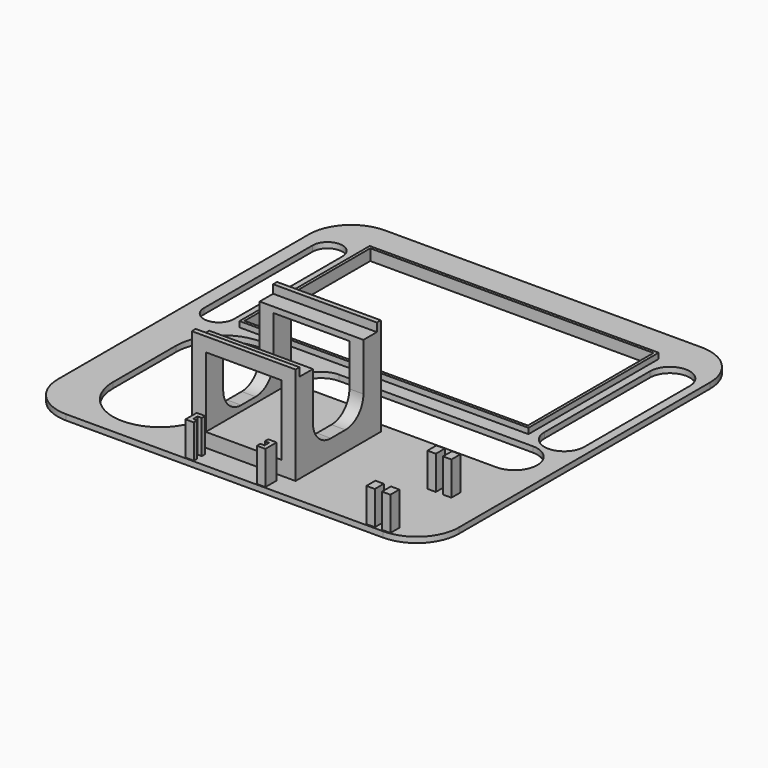
from build123d import *

# Parameters (mm, degrees)
SKETCH_W        = 143
SKETCH_H        = 142
PAD_DEPTH       = 2
SKETCH007_W     = 3
SKETCH007_H     = 4
PAD005_DEPTH    = 12
SKETCH008_W     = 103
SKETCH008_H     = 58
SKETCH008_W_2   = 101
SKETCH008_H_2   = 56
PAD006_DEPTH    = 2
SKETCH009_W     = 37
SKETCH009_H     = 38
PAD007_DEPTH    = 35
SKETCH010_W     = 37
SKETCH010_H     = 34.5
POCKET_DEPTH    = 3
SKETCH011_W     = 37
SKETCH011_H     = 22.5
POCKET001_DEPTH = 25
SKETCH013_W     = 27
SKETCH013_H     = 25
POCKET002_DEPTH = 45
SKETCH014_W     = 101
SKETCH014_H     = 56
POCKET003_DEPTH = 2.001
POCKET004_DEPTH = 2.001
FILLET_R        = 8
FILLET001_R     = 15


with BuildPart() as part:
    # Sketch → Pad (new body)
    with BuildSketch(Plane.XY):
        Rectangle(SKETCH_W, SKETCH_H)
    extrude(amount=PAD_DEPTH)

    # Sketch007 (on Face6 of Pad) → Pad005 (join)
    with BuildSketch(Plane.XY.offset(2)):
        with Locations((57.18826, -41.31823)):
            Rectangle(SKETCH007_W, SKETCH007_H)
        with Locations((51.63826, -41.31823)):
            Rectangle(SKETCH007_W, SKETCH007_H)
        with Locations((57.18826, -68.51823)):
            Rectangle(SKETCH007_W, SKETCH007_H)
        with Locations((51.63826, -68.51823)):
            Rectangle(SKETCH007_W, SKETCH007_H)
        Polygon((11.25, -65.67434), (14.25, -65.67434), (14.25, -70.67434), (11.25, -70.67434), (11.25, -69.17434), (12.75, -69.17434), (12.75, -67.17434), (11.25, -67.17434), align=None)
        Polygon((-14.25, -65.67434), (-11.25, -65.67434), (-11.25, -67.17434), (-12.75, -67.17434), (-12.75, -69.17434), (-11.25, -69.17434), (-11.25, -70.67434), (-14.25, -70.67434), align=None)
    extrude(amount=PAD005_DEPTH)

    # Sketch008 (on Face5 of Pad005) → Pad006 (join)
    with BuildSketch(Plane.XY.offset(2)):
        with Locations((0, 29)):
            Rectangle(SKETCH008_W, SKETCH008_H)
        with Locations((0, 29)):
            Rectangle(SKETCH008_W_2, SKETCH008_H_2, mode=Mode.SUBTRACT)
    extrude(amount=PAD006_DEPTH)

    # Sketch009 (on Face5 of Pad006) → Pad007 (join)
    with BuildSketch(Plane.XY.offset(2)):
        with Locations((0, -43.55182)):
            Rectangle(SKETCH009_W, SKETCH009_H)
    extrude(amount=PAD007_DEPTH)

    # Sketch010 (on Face48 of Pad007) → Pocket (cut)
    with BuildSketch(Plane.XY.offset(37)):
        with Locations((0, -43.55182)):
            Rectangle(SKETCH010_W, SKETCH010_H)
    extrude(amount=-POCKET_DEPTH, mode=Mode.SUBTRACT)

    # Sketch011 (on Face51 of Pocket) → Pocket001 (cut)
    with BuildSketch(Plane.XY.offset(34)):
        with Locations((0, -43.55182)):
            Rectangle(SKETCH011_W, SKETCH011_H)
    extrude(amount=-POCKET001_DEPTH, mode=Mode.SUBTRACT)

    # Sketch013 (on Face15 of Pocket001) → Pocket002 (cut)
    with BuildSketch(Plane.XZ.offset(62.55182)):
        with Locations((0, 19.5)):
            Rectangle(SKETCH013_W, SKETCH013_H)
    extrude(amount=-POCKET002_DEPTH, mode=Mode.SUBTRACT)

    # Sketch014 (on Face73 of Pocket002) → Pocket003 (cut, through all)
    with BuildSketch(Plane.XY.offset(2)):
        with Locations((0, 29)):
            Rectangle(SKETCH014_W, SKETCH014_H)
    extrude(amount=-POCKET003_DEPTH, mode=Mode.SUBTRACT)

    # Sketch015 (on Face5 of Pocket003) → Pocket004 (cut, through all)
    with BuildSketch(Plane.XY.offset(2)):
        with BuildLine():
            ThreePointArc((-24.986848, -19.655706), (-41.714005, -2.928549), (-58.441162, -19.655706))
            Line((-58.441162, -19.655706), (-58.441162, -47.734921))
            ThreePointArc((-58.441162, -47.734921), (-41.714005, -64.462078), (-24.986848, -47.734921))
            Line((-24.986848, -47.734921), (-24.986848, -19.655706))
        make_face()
        with BuildLine():
            ThreePointArc((-12.038252, -4.910588), (-20.155442, -13.027778), (-12.038252, -21.144968))
            Line((-12.038252, -21.144968), (56.984447, -21.144968))
            ThreePointArc((56.984447, -21.144968), (65.101637, -13.027778), (56.984447, -4.910588))
            Line((56.984447, -4.910588), (-12.038252, -4.910588))
        make_face()
        with BuildLine():
            ThreePointArc((-55.892961, 51.365669), (-61.221329, 56.694037), (-66.549697, 51.365669))
            Line((-66.549697, 51.365669), (-66.549697, 2.920796))
            ThreePointArc((-66.549697, 2.920796), (-61.221329, -2.407572), (-55.892961, 2.920796))
            Line((-55.892961, 2.920796), (-55.892961, 51.365669))
        make_face()
        with BuildLine():
            ThreePointArc((68.420184, 50.773804), (61.32185, 57.872138), (54.223516, 50.773804))
            Line((54.223516, 50.773804), (54.223516, 3.710121))
            ThreePointArc((54.223516, 3.710121), (61.32185, -3.388213), (68.420184, 3.710121))
            Line((68.420184, 3.710121), (68.420184, 50.773804))
        make_face()
    extrude(amount=-POCKET004_DEPTH, mode=Mode.SUBTRACT)

    # Fillet
    fillet_edges = [part.edges().sort_by_distance(p)[0] for p in [
        (16, -32.30182, 9),
        (-16, -32.30182, 9),
        (-16, -54.80182, 9),
        (16, -54.80182, 9),
    ]]
    fillet(fillet_edges, radius=FILLET_R)

    # Fillet001
    fillet001_edges = [part.edges().sort_by_distance(p)[0] for p in [
        (-71.5, -71, 1),
        (71.5, -71, 1),
        (71.5, 71, 1),
        (-71.5, 71, 1),
    ]]
    fillet(fillet001_edges, radius=FILLET001_R)


solid = part.part
